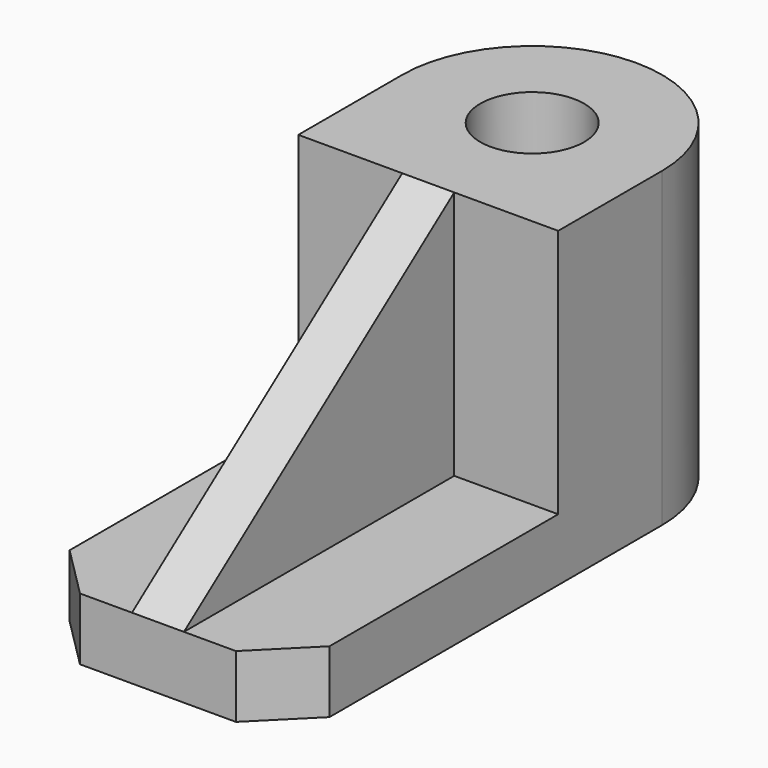
from build123d import *

# Parameters (mm, degrees)
SKETCH_R        = 10
PAD_DEPTH       = 60
SKETCH001_W     = 20
SKETCH001_H     = 65
POCKET_DEPTH    = 48
CHAMFER_SIZE2   = 48
CHAMFER_SIZE    = 65
CHAMFER001_SIZE = 10
CHAMFER002_SIZE = 10


with BuildPart() as part:
    # Sketch → Pad (new body)
    with BuildSketch(Plane.XY):
        with BuildLine():
            Line((-25, -90), (-25, 0))
            ThreePointArc((25, 0), (0, 25), (-25, 0))
            Line((25, 0), (25, -90))
            Line((25, -90), (-25, -90))
        make_face()
        Circle(SKETCH_R, mode=Mode.SUBTRACT)
    extrude(amount=PAD_DEPTH)

    # Sketch001 (on Face7 of Pad) → Pocket (cut)
    with BuildSketch(Plane.XY.offset(60)):
        with Locations((-15, -57.5)):
            Rectangle(SKETCH001_W, SKETCH001_H)
        with Locations((15, -57.5)):
            Rectangle(SKETCH001_W, SKETCH001_H)
    extrude(amount=-POCKET_DEPTH, mode=Mode.SUBTRACT)

    # Chamfer
    chamfer_edges = [part.edges().sort_by_distance(p)[0] for p in [
        (0, -90, 60),
    ]]
    chamfer_side = part.faces().sort_by_distance((0, -16.584953, 60))[0]
    chamfer(chamfer_edges, length=CHAMFER_SIZE, length2=CHAMFER_SIZE2, reference=chamfer_side)

    # Chamfer001
    chamfer001_edges = [part.edges().sort_by_distance(p)[0] for p in [
        (25, -90, 6),
    ]]
    chamfer(chamfer001_edges, length=CHAMFER001_SIZE)

    # Chamfer002
    chamfer002_edges = [part.edges().sort_by_distance(p)[0] for p in [
        (-25, -90, 6),
    ]]
    chamfer(chamfer002_edges, length=CHAMFER002_SIZE)


solid = part.part
